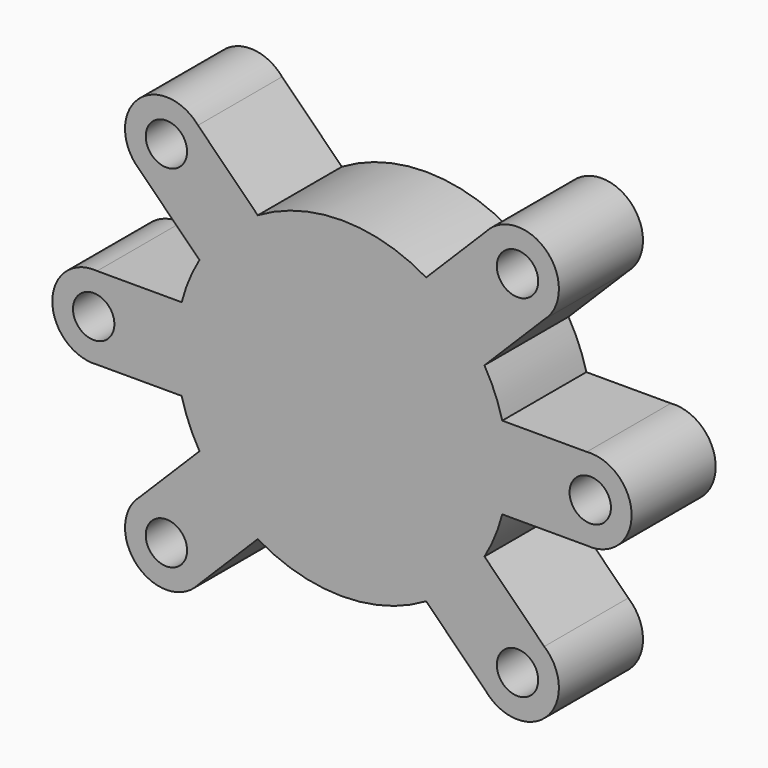
from build123d import *

# Parameters (mm, degrees)
F0_R     = 5
F0_R_2   = 30
F1_DEPTH = 12.7


with BuildPart() as f1:
    # F0 (on Front) → F1 (new body, symmetric)
    with BuildSketch(Plane.XZ):
        with BuildLine():
            Line((-48.8836239391, 34.7906785013), (-34.438939242, 20.3459938043))
            ThreePointArc((-34.438939242, 20.3459938043), (-36.9551813005, 15.3073372946), (-38.7387976639, 9.9652172859))
            Line((-38.7387976639, 9.9652172859), (-59.1666666667, 9.9652172859))
            ThreePointArc((-59.1666666667, 9.9652172859), (-70, 0), (-59.1666666667, -9.9652172859))
            Line((-59.1666666667, -9.9652172859), (-38.7387976639, -9.9652172859))
            ThreePointArc((-38.7387976639, -9.9652172859), (-36.9551813005, -15.3073372946), (-34.438939242, -20.3459938043))
            Line((-34.438939242, -20.3459938043), (-48.8836239391, -34.7906785013))
            ThreePointArc((-48.8836239391, -34.7906785013), (-49.4974746831, -49.4974746831), (-34.7906785013, -48.8836239391))
            Line((-34.7906785013, -48.8836239391), (-20.3459938043, -34.438939242))
            ThreePointArc((-20.3459938043, -34.438939242), (0, -40), (20.3459938043, -34.438939242))
            Line((20.3459938043, -34.438939242), (34.7906785013, -48.8836239391))
            ThreePointArc((34.7906785013, -48.8836239391), (49.4974746831, -49.4974746831), (48.8836239391, -34.7906785013))
            Line((48.8836239391, -34.7906785013), (34.438939242, -20.3459938043))
            ThreePointArc((34.438939242, -20.3459938043), (36.9551813005, -15.3073372946), (38.7387976639, -9.9652172859))
            Line((38.7387976639, -9.9652172859), (59.1666666667, -9.9652172859))
            ThreePointArc((59.1666666667, -9.9652172859), (70, 0), (59.1666666667, 9.9652172859))
            Line((59.1666666667, 9.9652172859), (38.7387976639, 9.9652172859))
            ThreePointArc((38.7387976639, 9.9652172859), (36.9551813005, 15.3073372946), (34.438939242, 20.3459938043))
            Line((34.438939242, 20.3459938043), (48.8836239391, 34.7906785013))
            ThreePointArc((48.8836239391, 34.7906785013), (49.4974746831, 49.4974746831), (34.7906785013, 48.8836239391))
            Line((34.7906785013, 48.8836239391), (20.3459938043, 34.438939242))
            ThreePointArc((20.3459938043, 34.438939242), (0, 40), (-20.3459938043, 34.438939242))
            Line((-20.3459938043, 34.438939242), (-34.7906785013, 48.8836239391))
            ThreePointArc((-34.7906785013, 48.8836239391), (-49.4974746831, 49.4974746831), (-48.8836239391, 34.7906785013))
        make_face()
        with Locations((-42.4264068712, -42.4264068712)):
            Circle(F0_R, mode=Mode.SUBTRACT)
        with Locations((42.4264068712, -42.4264068712)):
            Circle(F0_R, mode=Mode.SUBTRACT)
        with Locations((-60, 0)):
            Circle(F0_R, mode=Mode.SUBTRACT)
        with Locations((-42.4264068712, 42.4264068712)):
            Circle(F0_R, mode=Mode.SUBTRACT)
        Circle(F0_R_2, mode=Mode.SUBTRACT)
        with Locations((60, 0)):
            Circle(F0_R, mode=Mode.SUBTRACT)
        with Locations((42.4264068712, 42.4264068712)):
            Circle(F0_R, mode=Mode.SUBTRACT)
        Circle(F0_R_2)
    extrude(amount=F1_DEPTH, both=True)


solid = f1.part
